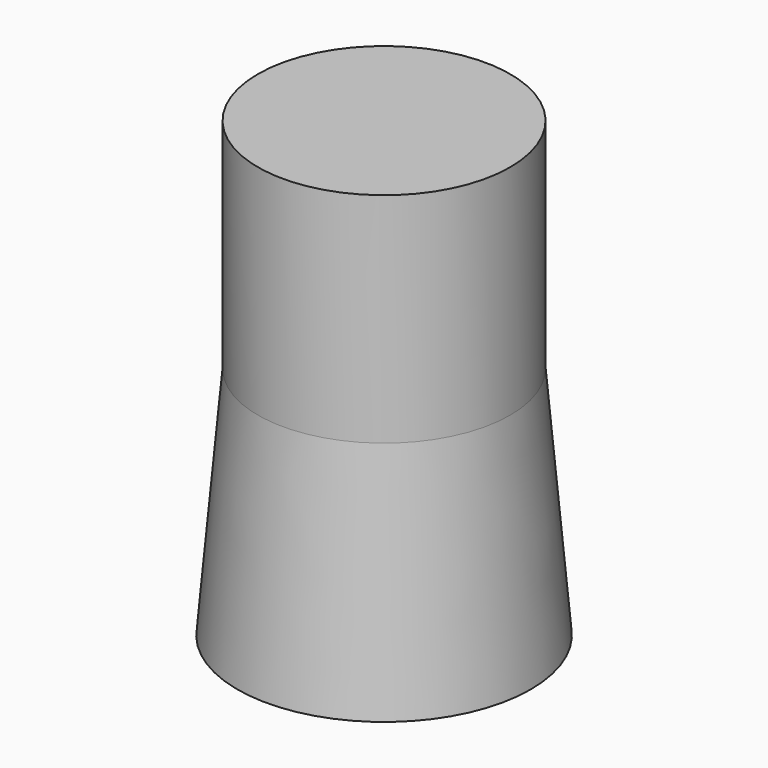
from build123d import *

# Parameters (mm, degrees)
F0_R          = 36.9900483435
F1_DEPTH      = 68.834
F1_TAPER      = -5
F1_DEPTH_BACK = 64.008


with BuildPart() as f1:
    # F0 (on Top) → F1 (new body, two sides)
    with BuildSketch(Plane.XY) as f1_sk:
        with Locations((-109.2963963747, 27.0548369735)):
            Circle(F0_R)
    extrude(amount=-F1_DEPTH, taper=F1_TAPER)
    extrude(f1_sk.sketch, amount=F1_DEPTH_BACK)


solid = f1.part
